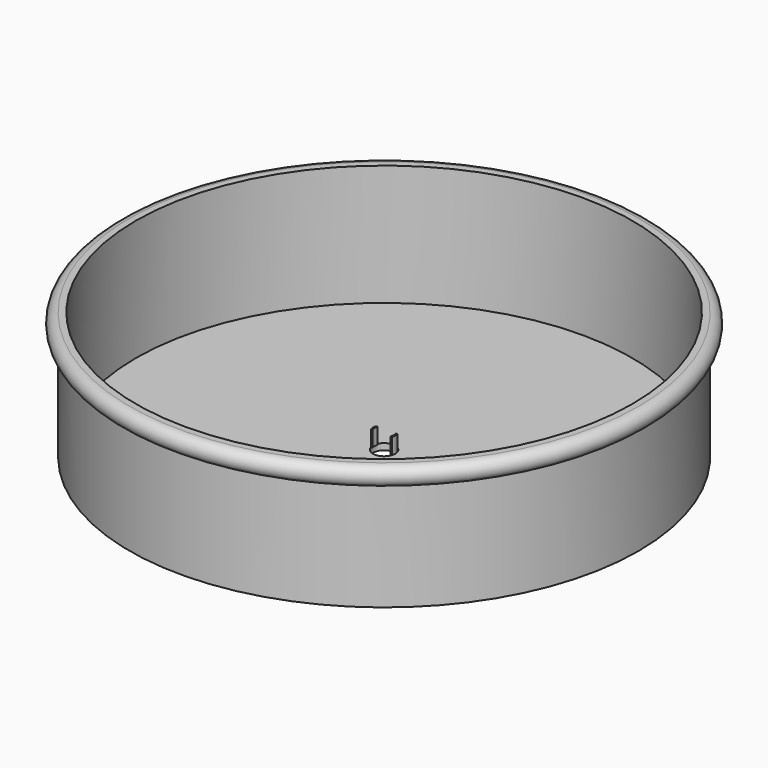
from build123d import *

# Parameters (mm, degrees)
F0_R     = 101.6
F1_DEPTH = 50.8
F2_T     = -2.54
F6_D     = 8.89
F8_DEPTH = 6.35


with BuildPart() as f1:
    # F0 (on Top) → F1 (new body)
    with BuildSketch(Plane.XY):
        Circle(F0_R)
    extrude(amount=F1_DEPTH)

    # F2
    f2_openings = [f1.faces().sort_by_distance(p)[0] for p in [
        (0, 0, 50.8),
    ]]
    offset(amount=F2_T, openings=f2_openings)

    # F3 (on Front) → F4 (revolve)
    with BuildSketch(Plane.XZ):
        with BuildLine():
            Line((101.6, 50.8), (101.6, 43.18))
            ThreePointArc((101.6, 43.18), (105.360366, 46.99), (101.6, 50.8))
        make_face()
    revolve(axis=Axis((0, 0, 25.40097), (0, 0, -1)))

    # F6 (through all)
    with Locations(Plane.XY.offset(2.54)):
        with Locations((0, 0)):
            Hole(F6_D / 2)

    # F7 (on face) → F8 (join)
    with BuildSketch(Plane.XY.offset(2.54)):
        with BuildLine():
            Line((-3.592102, 1.27), (-4.259709, 1.27))
            ThreePointArc((-4.259709, 1.27), (-4.445, 0), (-4.259709, -1.27))
            Line((-4.259709, -1.27), (-3.592102, -1.27))
            ThreePointArc((-3.592102, -1.27), (-3.81, 0), (-3.592102, 1.27))
        make_face()
        with BuildLine():
            Line((3.592102, -1.27), (4.259709, -1.27))
            ThreePointArc((4.259709, -1.27), (4.445, 0), (4.259709, 1.27))
            Line((4.259709, 1.27), (3.592102, 1.27))
            ThreePointArc((3.592102, 1.27), (3.81, 0), (3.592102, -1.27))
        make_face()
    extrude(amount=F8_DEPTH)


solid = f1.part
